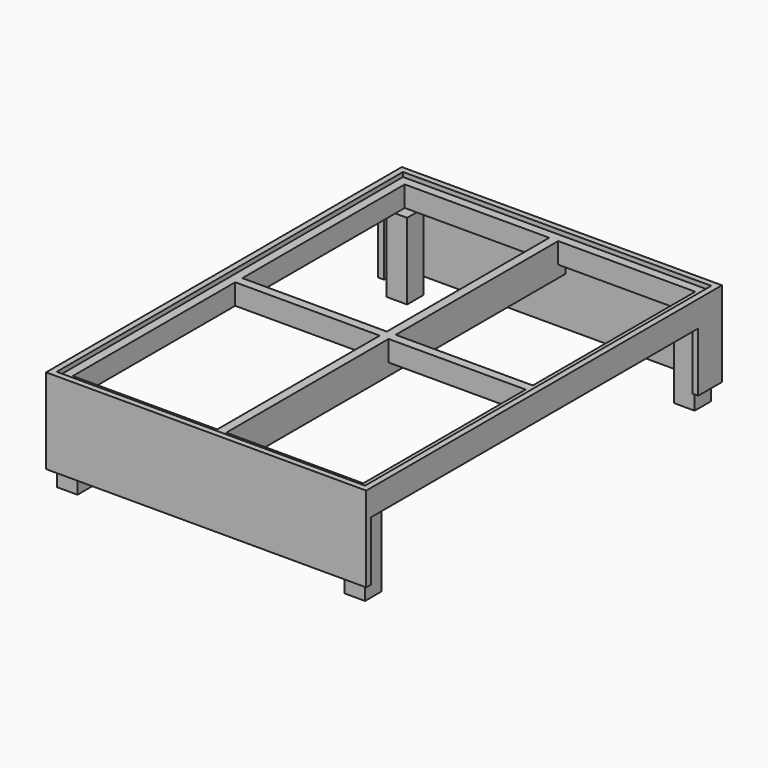
from build123d import *

# Parameters (mm, degrees)
F0_W      = 1371.6
F0_H      = 1905
F0_W_2    = 1320.8
F0_H_2    = 1854.2
F1_DEPTH  = 365.125
F2_W      = 38.1
F2_H      = 139.7
F3_DEPTH  = 1854.2
F4_W      = 1854.2
F4_H      = 88.9
F5_DEPTH  = 38.1
F6_W      = 1854.2
F6_H      = 88.9
F7_DEPTH  = 38.1
F8_W      = 1752.6
F8_H      = 254
F9_DEPTH  = 1371.601
F10_DEPTH = 1752.6
F11_W     = 38.1
F11_H     = 88.9
F12_DEPTH = 1270
F13_W     = 38.1
F13_H     = 88.9
F14_DEPTH = 1270
F15_W     = 38.1
F15_H     = 88.9
F16_DEPTH = 1270
F17_W     = 88.9
F17_H     = 88.9
F18_DEPTH = 327.025
F19_W     = 88.9
F19_H     = 88.9
F20_DEPTH = 327.025
F21_W     = 88.9
F21_H     = 88.9
F22_DEPTH = 327.025
F23_W     = 88.9
F23_H     = 88.9
F24_DEPTH = 327.025


with BuildPart() as f1:
    # F0 (on Top) → F1 (new body)
    with BuildSketch(Plane.XY):
        Rectangle(F0_W, F0_H)
        Rectangle(F0_W_2, F0_H_2, mode=Mode.SUBTRACT)
    extrude(amount=F1_DEPTH)

    # F2 (on face) → F3 (join, through all)
    with BuildSketch(Plane.XZ.offset(-927.1)):
        with Locations((15.875, 276.225)):
            Rectangle(F2_W, F2_H)
    extrude(amount=F3_DEPTH)

    # F4 (on face) → F5 (join)
    with BuildSketch(Plane.YZ.offset(-660.4)):
        with Locations((0, 301.625)):
            Rectangle(F4_W, F4_H)
    extrude(amount=F5_DEPTH)

    # F6 (on face) → F7 (join)
    with BuildSketch(Plane(origin=(660.4, 0, 0), x_dir=(0, -1, 0), z_dir=(-1, 0, 0))):
        with Locations((0, 301.625)):
            Rectangle(F6_W, F6_H)
    extrude(amount=F7_DEPTH)

    # F8 (on face) → F9 (cut, through all)
    with BuildSketch(Plane.YZ.offset(685.8)):
        with Locations((-50.8, 127)):
            Rectangle(F8_W, F8_H)
    extrude(amount=-F9_DEPTH, mode=Mode.SUBTRACT)

    # F10 (add, through all): a face of the model
    f10_faces = [f1.faces().sort_by_distance(p)[0] for p in [
        (15.875, 825.5, 230.1875),
    ]]
    extrude(f10_faces, amount=F10_DEPTH)

    # F11 (on face) → F12 (join)
    with BuildSketch(Plane.YZ.offset(-622.3)):
        with Locations((908.05, 301.625)):
            Rectangle(F11_W, F11_H)
    extrude(amount=F12_DEPTH)

    # F13 (on face) → F14 (join)
    with BuildSketch(Plane.YZ.offset(-622.3)):
        with Locations((-908.05, 301.625)):
            Rectangle(F13_W, F13_H)
    extrude(amount=F14_DEPTH)

    # F15 (on face) → F16 (join)
    with BuildSketch(Plane.YZ.offset(-622.3)):
        with Locations((0, 301.625)):
            Rectangle(F15_W, F15_H)
    extrude(amount=F16_DEPTH)

    # F17 (on face) → F18 (join)
    with BuildSketch(Plane(origin=(0, 0, 257.175), x_dir=(1, 0, 0), z_dir=(0, 0, -1))):
        with Locations((-615.95, 882.65)):
            Rectangle(F17_W, F17_H)
    extrude(amount=F18_DEPTH)

    # F19 (on face) → F20 (join)
    with BuildSketch(Plane(origin=(0, 0, 257.175), x_dir=(1, 0, 0), z_dir=(0, 0, -1))):
        with Locations((615.95, 882.65)):
            Rectangle(F19_W, F19_H)
    extrude(amount=F20_DEPTH)

    # F21 (on face) → F22 (join)
    with BuildSketch(Plane(origin=(0, 0, 257.175), x_dir=(1, 0, 0), z_dir=(0, 0, -1))):
        with Locations((-615.95, -882.65)):
            Rectangle(F21_W, F21_H)
    extrude(amount=F22_DEPTH)

    # F23 (on face) → F24 (join)
    with BuildSketch(Plane(origin=(0, 0, 257.175), x_dir=(1, 0, 0), z_dir=(0, 0, -1))):
        with Locations((615.95, -882.65)):
            Rectangle(F23_W, F23_H)
    extrude(amount=F24_DEPTH)


solid = f1.part
